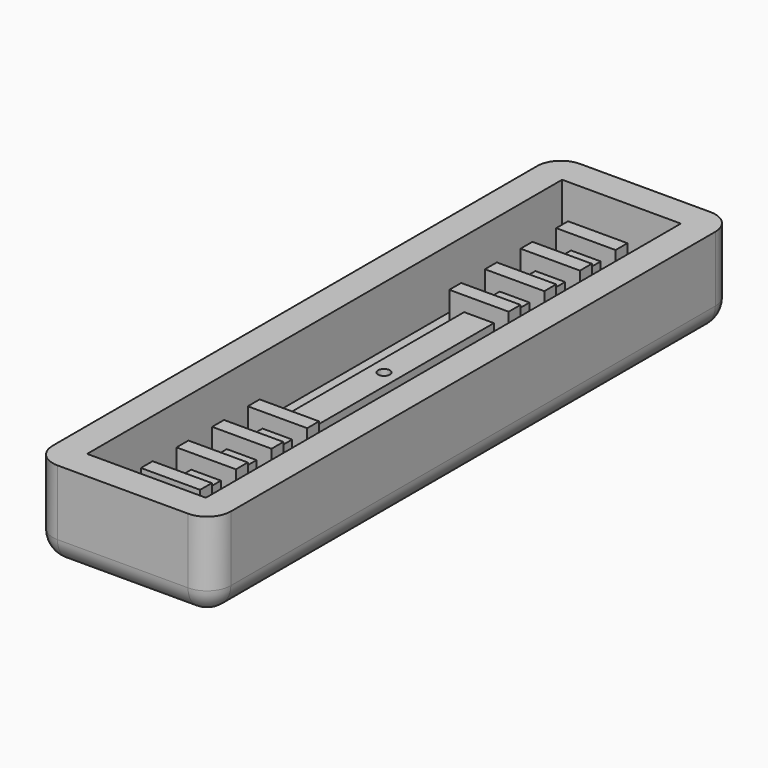
from build123d import *

# Parameters (mm, degrees)
F0_W     = 38.1
F0_H     = 139.7
F0_W_2   = 25.4
F0_H_2   = 127
F1_DEPTH = 19.05
F2_DEPTH = 6.35
F0_W_3   = 6.35
F0_H_3   = 50.7511039019
F0_R     = 1.27
F0_H_4   = 6.35
F3_DEPTH = 12.7
F0_H_5   = 3.175
F0_W_4   = 3.175
F0_W_5   = 3.141760166
F0_W_6   = 3.208239834
F0_H_6   = 3.1261039019
F4_DEPTH = 15.875
F5_R     = 5.08
F6_R     = 5.08
F7_R     = 5.08
F8_R     = 5.08
F9_R     = 5.08


with BuildPart() as f1:
    # F0 (on Top) → F1 (new body)
    with BuildSketch(Plane.XY):
        Rectangle(F0_W, F0_H)
        Rectangle(F0_W_2, F0_H_2, mode=Mode.SUBTRACT)
    extrude(amount=F1_DEPTH)

    # F0 (on Top) → F2 (join)
    with BuildSketch(Plane.XY):
        Rectangle(F0_W_2, F0_H_2)
        Polygon((-3.175, 57.15), (3.175, 57.15), (6.35, 57.15), (6.35, 53.975), (3.175, 53.975), (3.175, 47.625), (6.35, 47.625), (6.35, 44.45), (3.175, 44.45), (3.175, 38.1), (6.35, 38.1), (6.35, 34.925), (3.175, 34.925), (3.175, 28.575), (6.35, 28.575), (6.35, 25.4), (3.175, 25.4), (3.175, -25.3511039019), (6.383239834, -25.3511039019), (6.383239834, -28.5261039019), (3.175, -28.5261039019), (3.175, -34.8761039019), (6.383239834, -34.8761039019), (6.383239834, -38.0511039019), (3.175, -38.0511039019), (3.175, -44.4011039019), (6.383239834, -44.4011039019), (6.383239834, -47.5761039019), (3.175, -47.5761039019), (3.175, -53.9261039019), (6.383239834, -53.9261039019), (6.383239834, -57.1011039019), (6.35, -57.1011039019), (6.35, -57.15), (3.175, -57.15), (-3.175, -57.15), (-6.35, -57.15), (-6.35, -53.975), (-6.316760166, -53.975), (-6.316760166, -53.9261039019), (-3.175, -53.9261039019), (-3.175, -47.5761039019), (-6.316760166, -47.5761039019), (-6.316760166, -44.4011039019), (-3.175, -44.4011039019), (-3.175, -38.0511039019), (-6.316760166, -38.0511039019), (-6.316760166, -34.8761039019), (-3.175, -34.8761039019), (-3.175, -28.5261039019), (-6.316760166, -28.5261039019), (-6.316760166, -25.3511039019), (-3.175, -25.3511039019), (-3.175, 25.4), (-6.35, 25.4), (-6.35, 28.575), (-3.175, 28.575), (-3.175, 34.925), (-6.35, 34.925), (-6.35, 38.1), (-3.175, 38.1), (-3.175, 44.45), (-6.35, 44.45), (-6.35, 47.625), (-3.175, 47.625), (-3.175, 53.975), (-6.35, 53.975), (-6.35, 57.15), align=None, mode=Mode.SUBTRACT)
    extrude(amount=F2_DEPTH)

    # F0 (on Top) → F3 (join)
    with BuildSketch(Plane.XY):
        with Locations((0, 0.0244480491)):
            Rectangle(F0_W_3, F0_H_3)
        Circle(F0_R, mode=Mode.SUBTRACT)
        with Locations((0, 31.75)):
            Rectangle(F0_W_3, F0_H_4)
        with Locations((0, 41.275)):
            Rectangle(F0_W_3, F0_H_4)
        with Locations((0, 50.8)):
            Rectangle(F0_W_3, F0_H_4)
        with Locations((0, -31.7011039019)):
            Rectangle(F0_W_3, F0_H_4)
        with Locations((0, -41.2261039019)):
            Rectangle(F0_W_3, F0_H_4)
        with Locations((0, -50.7511039019)):
            Rectangle(F0_W_3, F0_H_4)
    extrude(amount=F3_DEPTH)

    # F0 (on Top) → F4 (join)
    with BuildSketch(Plane.XY):
        with Locations((0, 55.5625)):
            Rectangle(F0_W_3, F0_H_5)
        with Locations((4.7625, 55.5625)):
            Rectangle(F0_W_4, F0_H_5)
        with Locations((-4.7625, 55.5625)):
            Rectangle(F0_W_4, F0_H_5)
        with Locations((-4.7625, 46.0375)):
            Rectangle(F0_W_4, F0_H_5)
        with Locations((0, 46.0375)):
            Rectangle(F0_W_3, F0_H_5)
        with Locations((4.7625, 46.0375)):
            Rectangle(F0_W_4, F0_H_5)
        with Locations((4.7625, 36.5125)):
            Rectangle(F0_W_4, F0_H_5)
        with Locations((0, 36.5125)):
            Rectangle(F0_W_3, F0_H_5)
        with Locations((-4.7625, 36.5125)):
            Rectangle(F0_W_4, F0_H_5)
        with Locations((-4.7625, 26.9875)):
            Rectangle(F0_W_4, F0_H_5)
        with Locations((0, 26.9875)):
            Rectangle(F0_W_3, F0_H_5)
        with Locations((4.7625, 26.9875)):
            Rectangle(F0_W_4, F0_H_5)
        with Locations((0, -26.9386039019)):
            Rectangle(F0_W_3, F0_H_5)
        with Locations((-4.745880083, -26.9386039019)):
            Rectangle(F0_W_5, F0_H_5)
        with Locations((4.779119917, -26.9386039019)):
            Rectangle(F0_W_6, F0_H_5)
        with Locations((4.779119917, -36.4636039019)):
            Rectangle(F0_W_6, F0_H_5)
        with Locations((0, -36.4636039019)):
            Rectangle(F0_W_3, F0_H_5)
        with Locations((-4.745880083, -36.4636039019)):
            Rectangle(F0_W_5, F0_H_5)
        with Locations((0, -45.9886039019)):
            Rectangle(F0_W_3, F0_H_5)
        with Locations((0, -55.5380519509)):
            Rectangle(F0_W_3, F0_H_6)
        with Locations((4.779119917, -45.9886039019)):
            Rectangle(F0_W_6, F0_H_5)
        with Locations((4.7625, -55.5380519509)):
            Rectangle(F0_W_4, F0_H_6)
        with Locations((-4.745880083, -55.5380519509)):
            Rectangle(F0_W_5, F0_H_6)
        with Locations((-4.745880083, -45.9886039019)):
            Rectangle(F0_W_5, F0_H_5)
    extrude(amount=F4_DEPTH)

    # F5
    f5_edges = [f1.edges().sort_by_distance(p)[0] for p in [
        (19.05, 69.85, 9.525),
    ]]
    fillet(f5_edges, radius=F5_R)

    # F6
    f6_edges = [f1.edges().sort_by_distance(p)[0] for p in [
        (-19.05, 69.85, 9.525),
    ]]
    fillet(f6_edges, radius=F6_R)

    # F7
    f7_edges = [f1.edges().sort_by_distance(p)[0] for p in [
        (19.05, -69.85, 9.525),
    ]]
    fillet(f7_edges, radius=F7_R)

    # F8
    f8_edges = [f1.edges().sort_by_distance(p)[0] for p in [
        (-19.05, -69.85, 9.525),
    ]]
    fillet(f8_edges, radius=F8_R)

    # F9
    f9_edges = [f1.edges().sort_by_distance(p)[0] for p in [
        (0, -69.85, 0),
    ]]
    fillet(f9_edges, radius=F9_R)


solid = f1.part
